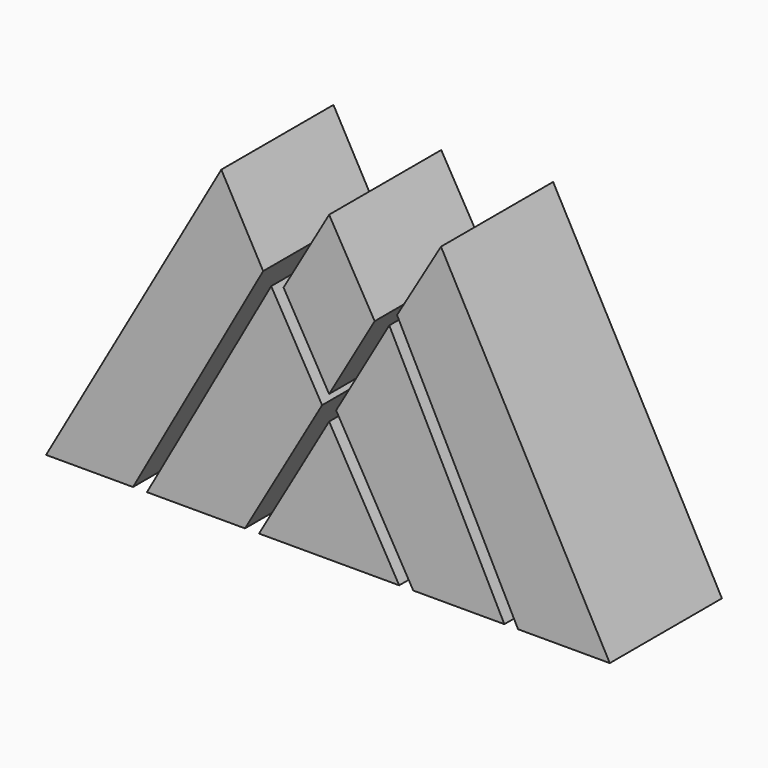
from build123d import *

# Parameters (mm, degrees)
F1_DEPTH = 19.05
F2_DEPTH = 25.4


with BuildPart() as f1:
    # F0 (on Front) → F1 (new body)
    with BuildSketch(Plane.XZ):
        Polygon((0, -21.997045), (0, 0), (-12.7, -21.997045), align=None)
        Polygon((12.7, -21.997045), (0, 0), (0, -21.997045), align=None)
        Polygon((-11.95219, 20.10862), (-19.534754, 33.835186), (-51.283337, -21.997045), (-35.534823, -21.997045), align=None)
        Polygon((15.24, -21.997045), (31.75, -21.997045), (10.90095, 18.881), (1.27, 2.199705), align=None)
        Polygon((50.852589, -21.997045), (20.268195, 34.491322), (12.303806, 20.994143), (34.230623, -21.997045), align=None)
        Polygon((-15.24, -21.997045), (-1.27, 2.199705), (-10.497931, 18.182949), (-33.00203, -21.997045), align=None)
        Polygon((8.255, 18.697488), (0, 32.995568), (-8.255, 18.697488), (0, 4.399409), align=None)
    extrude(amount=F1_DEPTH)


with BuildPart() as f2:
    # F0 (on Front) → F2 (new body)
    with BuildSketch(Plane.XZ):
        Polygon((0, -21.997045), (0, 0), (-12.7, -21.997045), align=None)
        Polygon((12.7, -21.997045), (0, 0), (0, -21.997045), align=None)
        Polygon((-11.95219, 20.10862), (-19.534754, 33.835186), (-51.283337, -21.997045), (-35.534823, -21.997045), align=None)
        Polygon((15.24, -21.997045), (31.75, -21.997045), (10.90095, 18.881), (1.27, 2.199705), align=None)
        Polygon((50.852589, -21.997045), (20.268195, 34.491322), (12.303806, 20.994143), (34.230623, -21.997045), align=None)
        Polygon((-15.24, -21.997045), (-1.27, 2.199705), (-10.497931, 18.182949), (-33.00203, -21.997045), align=None)
        Polygon((8.255, 18.697488), (0, 32.995568), (-8.255, 18.697488), (0, 4.399409), align=None)
    extrude(amount=F2_DEPTH)


solid = Compound([f1.part, f2.part])
